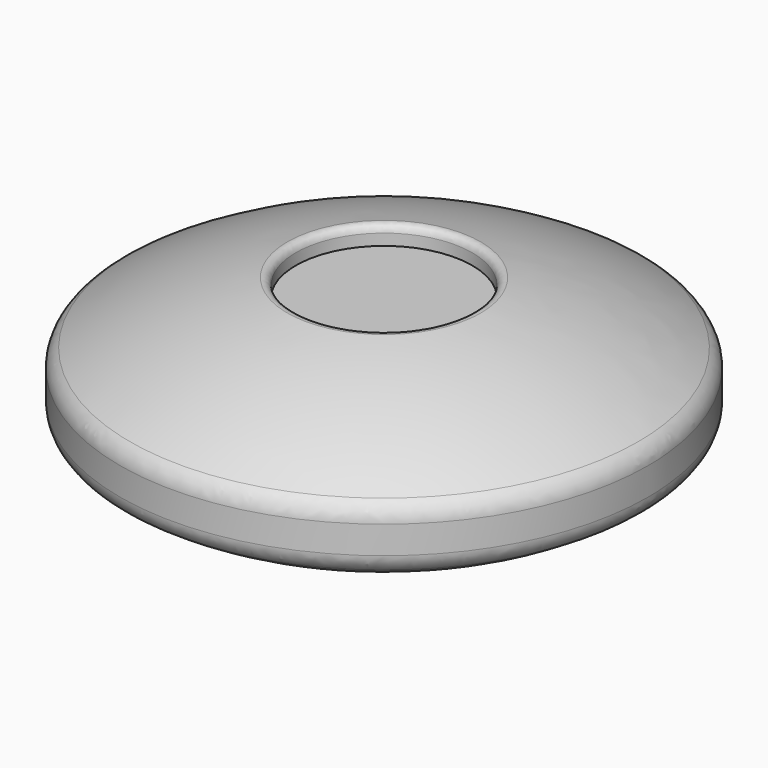
from build123d import *

# Parameters (mm, degrees)
F2_R     = 3
F4_R     = 12.7
F5_DEPTH = 4
F6_R     = 1


with BuildPart() as f1:
    # F0 (on Front) → F1 (revolve)
    with BuildSketch(Plane.XZ):
        with BuildLine():
            Line((0, 25.4), (0, 0))
            Line((0, 0), (17, 0))
            ThreePointArc((17, 0), (28.067972, 1.796085), (38, 7))
            Line((38, 7), (38, 14.187754))
            ThreePointArc((38, 14.187754), (19.809811, 22.538449), (0, 25.4))
        make_face()
    revolve(axis=Axis((0, 0, 12.7), (0, 0, -1)))

    # F2
    f2_edges = [f1.edges().sort_by_distance(p)[0] for p in [
        (-38, 0, 7),
        (-38, 0, 14.187754),
    ]]
    fillet(f2_edges, radius=F2_R)

    # F4 (on offset) → F5 (cut)
    with BuildSketch(Plane.XY.offset(25.4)):
        Circle(F4_R)
    extrude(amount=-F5_DEPTH, mode=Mode.SUBTRACT)

    # F6
    f6_edges = [f1.edges().sort_by_distance(p)[0] for p in [
        (-12.7, 0, 24.238289),
    ]]
    fillet(f6_edges, radius=F6_R)


solid = f1.part
